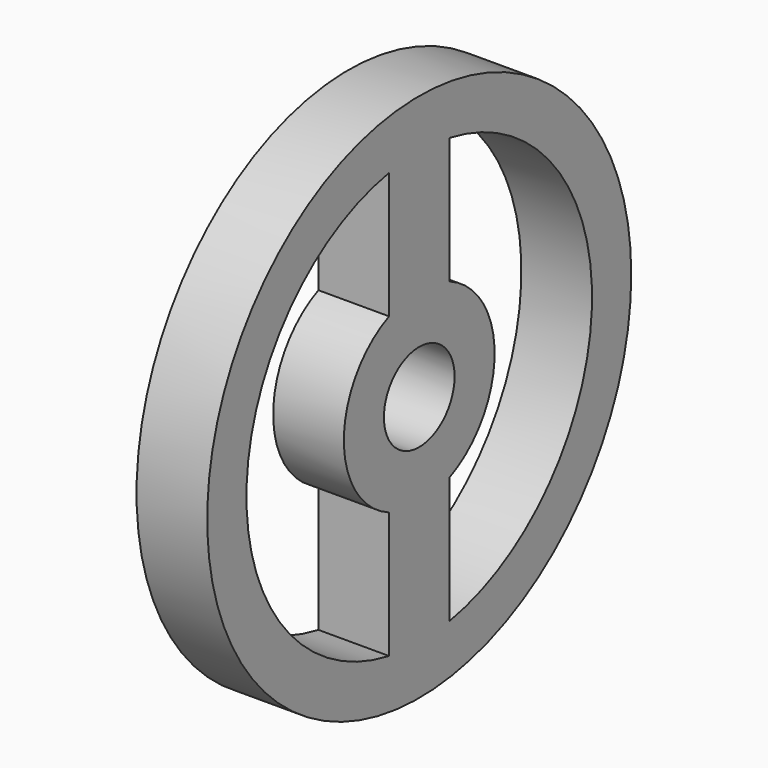
from build123d import *

# Parameters (mm, degrees)
F0_R     = 19.05
F0_R_2   = 3.175
F1_DEPTH = 5.08


with BuildPart() as f1:
    # F0 (on Right) → F1 (new body)
    with BuildSketch(Plane.YZ):
        Circle(F0_R)
        with BuildLine():
            ThreePointArc((-2.712303, -15.287515), (-15.526259, 0), (-2.712303, 15.287515))
            Line((-2.712303, 15.287515), (-2.712303, 6.20612))
            ThreePointArc((-2.712303, 6.20612), (-6.772925, 0), (-2.712303, -6.20612))
            Line((-2.712303, -6.20612), (-2.712303, -15.287515))
        make_face(mode=Mode.SUBTRACT)
        Circle(F0_R_2, mode=Mode.SUBTRACT)
        with BuildLine():
            Line((2.712303, 6.20612), (2.712303, 15.287515))
            ThreePointArc((2.712303, 15.287515), (15.526259, 0.002746), (2.717711, -15.286555))
            Line((2.717711, -15.286555), (2.717711, -6.203754))
            ThreePointArc((2.717711, -6.203754), (6.772924, 0.002951), (2.712303, 6.20612))
        make_face(mode=Mode.SUBTRACT)
    extrude(amount=F1_DEPTH)


solid = f1.part
